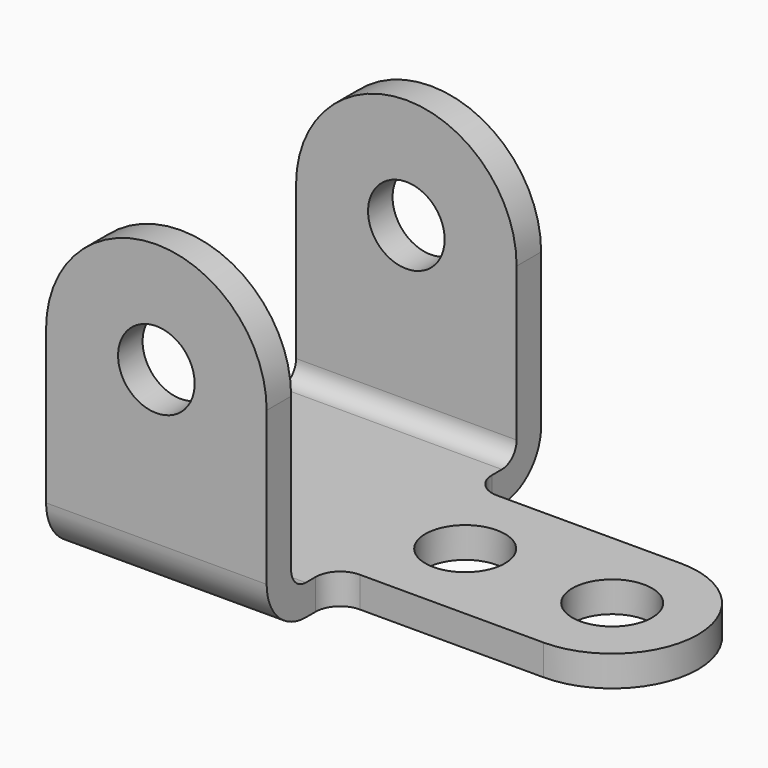
from build123d import *

# Parameters (mm, degrees)
F0_R     = 10.3251
F1_DEPTH = 7.9375
F2_R     = 9.92251
F3_DEPTH = 88.9
F5_DEPTH = 57.15
F6_R     = 12.7
F7_R     = 12.7


with BuildPart() as f1:
    # F0 (on Top) → F1 (new body)
    with BuildSketch(Plane.XY):
        with BuildLine():
            Line((0, 44.45), (0, -44.45))
            Line((0, -44.45), (57.15, -44.45))
            Line((57.15, -44.45), (57.15, -28.575))
            ThreePointArc((57.15, -28.575), (59.009872, -24.084872), (63.5, -22.225))
            Line((63.5, -22.225), (111.125, -22.225))
            ThreePointArc((111.125, -22.225), (133.35, 0), (111.125, 22.225))
            Line((111.125, 22.225), (63.5, 22.225))
            ThreePointArc((63.5, 22.225), (59.009872, 24.084872), (57.15, 28.575))
            Line((57.15, 28.575), (57.15, 44.45))
            Line((57.15, 44.45), (0, 44.45))
        make_face()
        with Locations((73.025, 0)):
            Circle(F0_R, mode=Mode.SUBTRACT)
        with Locations((111.125, 0)):
            Circle(F0_R, mode=Mode.SUBTRACT)
    extrude(amount=F1_DEPTH)

    # F2 (on face) → F3 (join)
    with BuildSketch(Plane.XZ.offset(44.45)):
        with BuildLine():
            Line((0, 52.3875), (0, 7.9375))
            Line((0, 7.9375), (57.15, 7.9375))
            Line((57.15, 7.9375), (57.15, 52.3875))
            ThreePointArc((57.15, 52.3875), (28.575, 80.9625), (0, 52.3875))
        make_face()
        with Locations((28.575, 52.3875)):
            Circle(F2_R, mode=Mode.SUBTRACT)
    extrude(amount=-F3_DEPTH)

    # F4 (on face) → F5 (cut)
    with BuildSketch(Plane(origin=(0, 0, 0), x_dir=(0, -1, 0), z_dir=(-1, 0, 0))):
        with BuildLine():
            ThreePointArc((-36.5125, 12.7), (-35.117596, 9.332404), (-31.75, 7.9375))
            Line((-31.75, 7.9375), (31.75, 7.9375))
            ThreePointArc((31.75, 7.9375), (35.117596, 9.332404), (36.5125, 12.7))
            Line((36.5125, 12.7), (36.5125, 84.1375))
            Line((36.5125, 84.1375), (-36.5125, 84.1375))
            Line((-36.5125, 84.1375), (-36.5125, 12.7))
        make_face()
    extrude(amount=-F5_DEPTH, mode=Mode.SUBTRACT)

    # F6
    f6_edges = [f1.edges().sort_by_distance(p)[0] for p in [
        (28.575, 44.45, 0),
    ]]
    fillet(f6_edges, radius=F6_R)

    # F7
    f7_edges = [f1.edges().sort_by_distance(p)[0] for p in [
        (28.575, -44.45, 0),
    ]]
    fillet(f7_edges, radius=F7_R)


solid = f1.part
